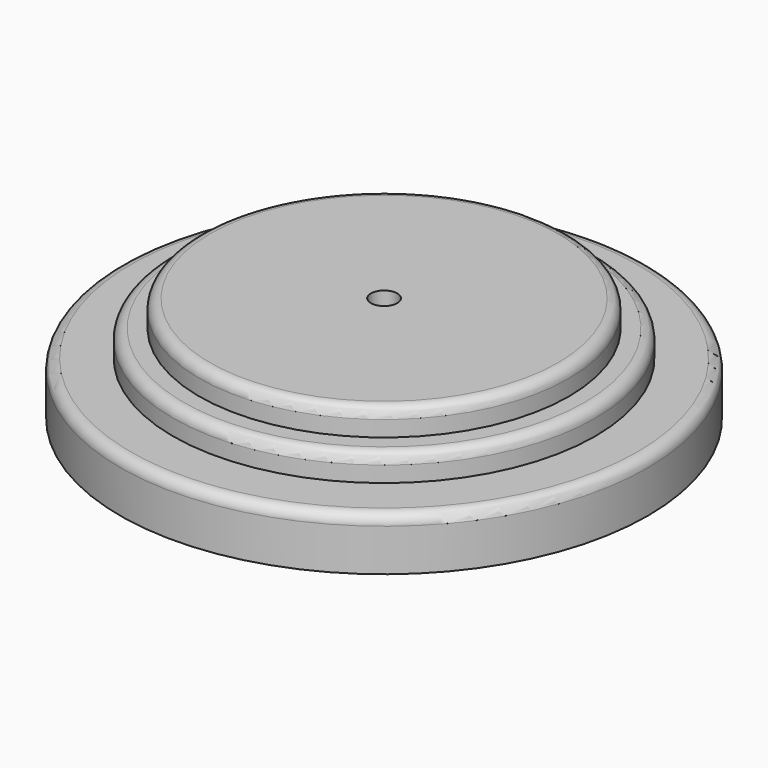
from build123d import *

# Parameters (mm, degrees)
F0_R     = 44.45
F1_DEPTH = 25.4
F0_R_2   = 63.5
F0_R_3   = 50.8
F2_DEPTH = 12.7
F3_DEPTH = 19.05
F5_D     = 6.35
F6_R     = 2.54
F6_2_R   = 2.54
F6_3_R   = 2.54


with BuildPart() as f1:
    # F0 (on Top) → F1 (new body)
    with BuildSketch(Plane.XY):
        Circle(F0_R)
    extrude(amount=F1_DEPTH)

    # F5 (through all)
    with Locations(Plane.XY.offset(25.4)):
        with Locations((0, 0)):
            Hole(F5_D / 2)

    # F6
    f6_edges = [f1.edges().sort_by_distance(p)[0] for p in [
        (-44.45, 0, 25.4),
    ]]
    fillet(f6_edges, radius=F6_R)


with BuildPart() as f2:
    # F0 (on Top) → F2 (new body)
    with BuildSketch(Plane.XY):
        Circle(F0_R_2)
        Circle(F0_R_3, mode=Mode.SUBTRACT)
    extrude(amount=F2_DEPTH)

    # F6#3
    f6_3_edges = [f2.edges().sort_by_distance(p)[0] for p in [
        (-63.5, 0, 12.7),
    ]]
    fillet(f6_3_edges, radius=F6_3_R)


with BuildPart() as f3:
    # F0 (on Top) → F3 (new body)
    with BuildSketch(Plane.XY):
        Circle(F0_R_3)
        Circle(F0_R, mode=Mode.SUBTRACT)
    extrude(amount=F3_DEPTH)

    # F6#2
    f6_2_edges = [f3.edges().sort_by_distance(p)[0] for p in [
        (-50.8, 0, 19.05),
    ]]
    fillet(f6_2_edges, radius=F6_2_R)


solid = Compound([f1.part, f2.part, f3.part])
